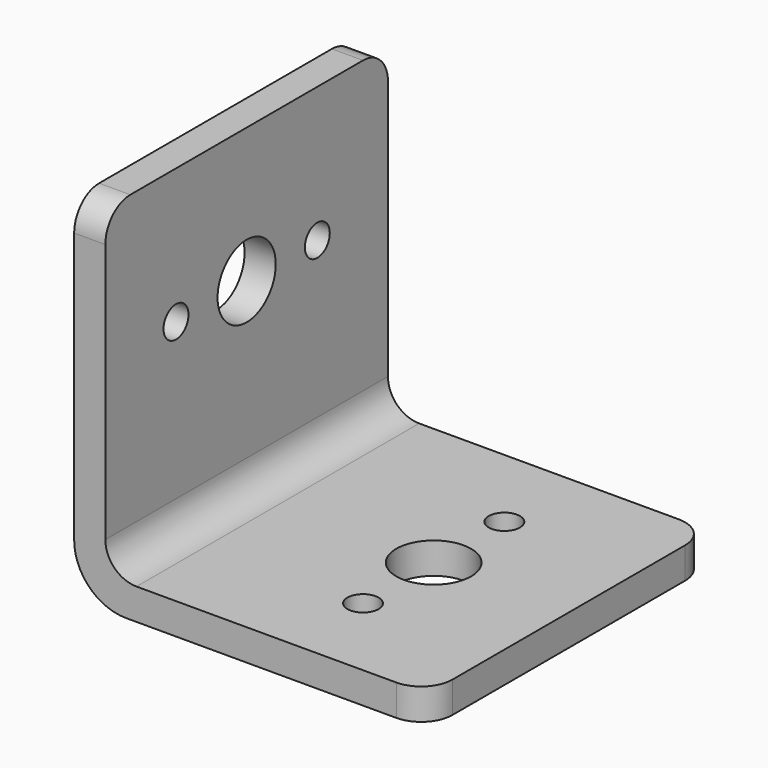
from build123d import *

# Parameters (mm, degrees)
SKETCH005_W     = 34
SKETCH005_H     = 34
PAD005_DEPTH    = 3
SKETCH006_W     = 3
SKETCH006_H     = 34
PAD006_DEPTH    = 31
FILLET_R        = 3
FILLET001_R     = 5
SKETCH007_R     = 1.5
SKETCH007_R_2   = 3.6
POCKET_DEPTH    = 5
FILLET002_R     = 3
SKETCH008_R     = 1.5
SKETCH008_R_2   = 3.5
POCKET001_DEPTH = 5
FILLET003_R     = 3


with BuildPart() as part:
    # Sketch005 → Pad005 (new body)
    with BuildSketch(Plane.XY):
        with Locations((-37, 17)):
            Rectangle(SKETCH005_W, SKETCH005_H)
    extrude(amount=PAD005_DEPTH)

    # Sketch006 (on Face6 of Pad005) → Pad006 (join)
    with BuildSketch(Plane.XY.offset(3)):
        with Locations((-52.5, 17)):
            Rectangle(SKETCH006_W, SKETCH006_H)
    extrude(amount=PAD006_DEPTH)

    # Fillet
    fillet_edges = [part.edges().sort_by_distance(p)[0] for p in [
        (-51, 17, 3),
    ]]
    fillet(fillet_edges, radius=FILLET_R)

    # Fillet001
    fillet001_edges = [part.edges().sort_by_distance(p)[0] for p in [
        (-54, 17, 0),
    ]]
    fillet(fillet001_edges, radius=FILLET001_R)

    # Sketch007 (on Face6 of Fillet001) → Pocket (cut)
    with BuildSketch(Plane.XY.offset(3)):
        with Locations((-33, 8.5)):
            Circle(SKETCH007_R)
        with Locations((-33, 25.5)):
            Circle(SKETCH007_R)
        with Locations((-33, 17)):
            Circle(SKETCH007_R_2)
    extrude(amount=-POCKET_DEPTH, mode=Mode.SUBTRACT)

    # Fillet002
    fillet002_edges = [part.edges().sort_by_distance(p)[0] for p in [
        (-20, 34, 1.5),
        (-20, 0, 1.5),
    ]]
    fillet(fillet002_edges, radius=FILLET002_R)

    # Sketch008 (on Face9 of Fillet002) → Pocket001 (cut)
    with BuildSketch(Plane.YZ.offset(-51)):
        with Locations((8.5, 21)):
            Circle(SKETCH008_R)
        with Locations((25.5, 21)):
            Circle(SKETCH008_R)
        with Locations((17, 21)):
            Circle(SKETCH008_R_2)
    extrude(amount=-POCKET001_DEPTH, mode=Mode.SUBTRACT)

    # Fillet003
    fillet003_edges = [part.edges().sort_by_distance(p)[0] for p in [
        (-52.5, 34, 34),
        (-52.5, 0, 34),
    ]]
    fillet(fillet003_edges, radius=FILLET003_R)


solid = part.part
